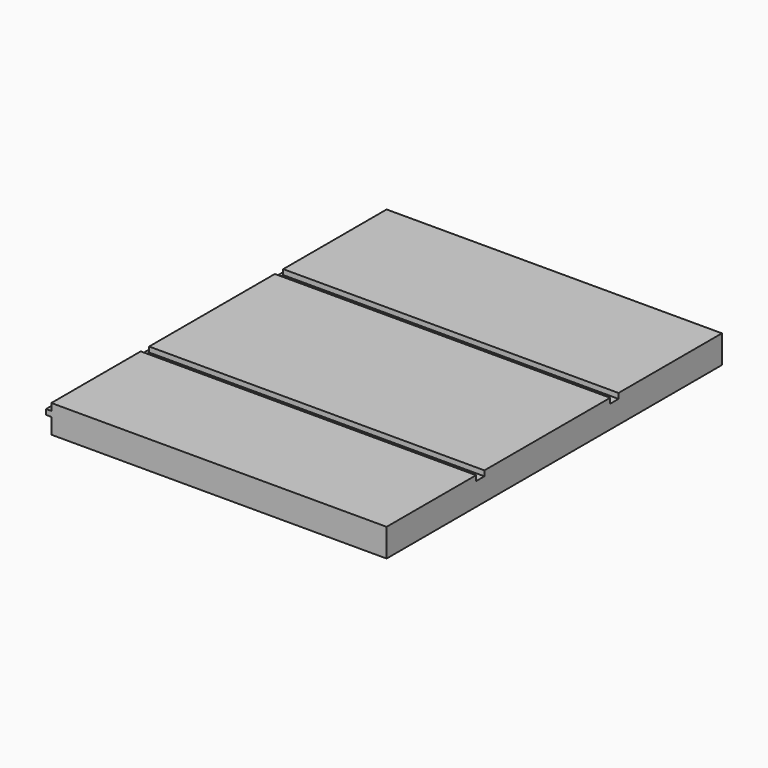
from build123d import *

# Parameters (mm, degrees)
F0_W     = 9.525
F0_H     = 9.525
F1_DEPTH = 762
F2_W     = 19.05
F2_H     = 9.525
F3_DEPTH = 609.6


with BuildPart() as f1:
    # F0 (on Front) → F1 (new body)
    with BuildSketch(Plane.XZ):
        with Locations((-4.7625, 33.3375)):
            Rectangle(F0_W, F0_H)
        Polygon((0, 28.575), (0, 0), (609.6, 0), (609.6, 50.8), (0, 50.8), (0, 38.1), align=None)
    extrude(amount=F1_DEPTH)

    # F2 (on face) → F3 (cut, through all)
    with BuildSketch(Plane.YZ.offset(609.6)):
        with Locations((-244.475, 46.0375)):
            Rectangle(F2_W, F2_H)
        with Locations((-549.275, 46.0375)):
            Rectangle(F2_W, F2_H)
    extrude(amount=-F3_DEPTH, mode=Mode.SUBTRACT)


solid = f1.part
